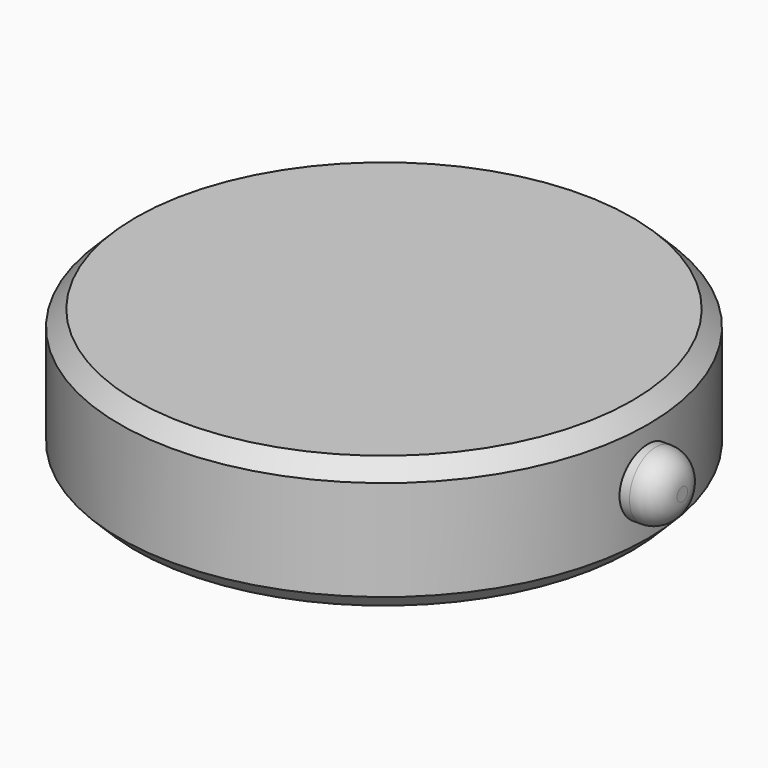
from build123d import *

# Parameters (mm, degrees)
F0_R          = 12.7
F1_DEPTH      = 3.175
F2_R          = 1.5875
F3_DEPTH      = 14.351
F3_DEPTH_BACK = 14.351
F4_R          = 1.27
F5_SIZE       = 0.762


with BuildPart() as f1:
    # F0 (on Top) → F1 (new body, symmetric)
    with BuildSketch(Plane.XY):
        Circle(F0_R)
    extrude(amount=F1_DEPTH, both=True)

    # F2 (on Right) → F3 (join, two sides)
    with BuildSketch(Plane.YZ) as f3_sk:
        Circle(F2_R)
    extrude(amount=-F3_DEPTH)
    extrude(f3_sk.sketch, amount=F3_DEPTH_BACK)

    # F4
    f4_edges = [f1.edges().sort_by_distance(p)[0] for p in [
        (-14.351, -1.5875, 0),
        (14.351, -1.5875, 0),
    ]]
    fillet(f4_edges, radius=F4_R)

    # F5
    f5_edges = [f1.edges().sort_by_distance(p)[0] for p in [
        (-12.7, 0, 3.175),
        (-12.7, 0, -3.175),
    ]]
    chamfer(f5_edges, length=F5_SIZE)


solid = f1.part
